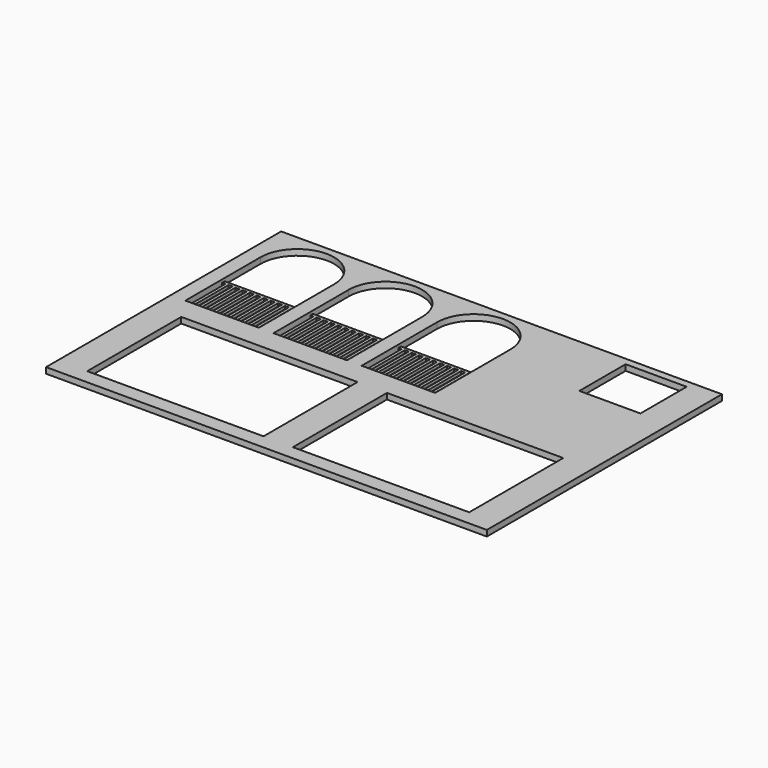
from build123d import *

# Parameters (mm, degrees)
F1_DEPTH = 1
F0_W     = 150
F0_H     = 100
F0_W_2   = 60
F0_H_2   = 40
F0_W_3   = 20.773581
F0_H_3   = 19.665093
F2_DEPTH = 2


with BuildPart() as f1:
    # F0 (on Top) → F1 (new body)
    with BuildSketch(Plane.XY):
        Polygon((-30.650433, 3), (-30.650433, 18.662618), (-29.301084, 18.662618), (-29.301084, 3), (-28.250433, 3), (-28.250433, 18.662618), (-26.901084, 18.662618), (-26.901084, 3), (-25.850433, 3), (-25.850433, 18.662618), (-24.501084, 18.662618), (-24.501084, 3), (-23.450433, 3), (-23.450433, 18.662618), (-22.101084, 18.662618), (-22.101084, 3), (-21.050433, 3), (-21.050433, 18.662618), (-19.701084, 18.662618), (-19.701084, 3), (-18.650433, 3), (-18.650433, 18.662618), (-17.301084, 18.662618), (-17.301084, 3), (-16.250433, 3), (-16.250433, 18.662618), (-15, 18.662618), (-15, 19.713273), (-40, 19.713273), (-40, 18.662618), (-38.901084, 18.662618), (-38.901084, 3), (-37.850433, 3), (-37.850433, 18.662618), (-36.501084, 18.662618), (-36.501084, 3), (-35.450433, 3), (-35.450433, 18.662618), (-34.101084, 18.662618), (-34.101084, 3), (-33.050433, 3), (-33.050433, 18.662618), (-31.701084, 18.662618), (-31.701084, 3), align=None)
        Polygon((-0.650433, 3), (-0.650433, 18.662618), (0.698916, 18.662618), (0.698916, 3), (1.749567, 3), (1.749567, 18.662618), (3.098916, 18.662618), (3.098916, 3), (4.149567, 3), (4.149567, 18.662618), (5.498916, 18.662618), (5.498916, 3), (6.549567, 3), (6.549567, 18.662618), (7.898916, 18.662618), (7.898916, 3), (8.949567, 3), (8.949567, 18.662618), (10.298916, 18.662618), (10.298916, 3), (11.349567, 3), (11.349567, 18.662618), (12.698916, 18.662618), (12.698916, 3), (13.749567, 3), (13.749567, 18.662618), (15, 18.662618), (15, 19.713273), (-10, 19.713273), (-10, 18.662618), (-8.901084, 18.662618), (-8.901084, 3), (-7.850433, 3), (-7.850433, 18.662618), (-6.501084, 18.662618), (-6.501084, 3), (-5.450433, 3), (-5.450433, 18.662618), (-4.101084, 18.662618), (-4.101084, 3), (-3.050433, 3), (-3.050433, 18.662618), (-1.701084, 18.662618), (-1.701084, 3), align=None)
        Polygon((-45, 18.662618), (-45, 19.713273), (-70, 19.713273), (-70, 18.662618), (-68.901084, 18.662618), (-68.901084, 3), (-67.850433, 3), (-67.850433, 18.662618), (-66.501084, 18.662618), (-66.501084, 3), (-65.450433, 3), (-65.450433, 18.662618), (-64.101084, 18.662618), (-64.101084, 3), (-63.050433, 3), (-63.050433, 18.662618), (-61.701084, 18.662618), (-61.701084, 3), (-60.650433, 3), (-60.650433, 18.662618), (-59.301084, 18.662618), (-59.301084, 3), (-58.250433, 3), (-58.250433, 18.662618), (-56.901084, 18.662618), (-56.901084, 3), (-55.850433, 3), (-55.850433, 18.662618), (-54.501084, 18.662618), (-54.501084, 3), (-53.450433, 3), (-53.450433, 18.662618), (-52.101084, 18.662618), (-52.101084, 3), (-51.050433, 3), (-51.050433, 18.662618), (-49.701084, 18.662618), (-49.701084, 3), (-48.650433, 3), (-48.650433, 18.662618), (-47.301084, 18.662618), (-47.301084, 3), (-46.250433, 3), (-46.250433, 18.662618), align=None)
    extrude(amount=F1_DEPTH)


with BuildPart() as f2:
    # F0 (on Top) → F2 (new body)
    with BuildSketch(Plane.XY):
        Rectangle(F0_W, F0_H)
        with Locations((-35, -25)):
            Rectangle(F0_W_2, F0_H_2, mode=Mode.SUBTRACT)
        with Locations((35, -25)):
            Rectangle(F0_W_2, F0_H_2, mode=Mode.SUBTRACT)
        with BuildLine():
            ThreePointArc((-70, 35), (-57.5, 47.5), (-45, 35))
            Line((-45, 35), (-45, 19.713273))
            Line((-45, 19.713273), (-45, 18.662618))
            Line((-45, 18.662618), (-45, 3))
            Line((-45, 3), (-46.250433, 3))
            Line((-46.250433, 3), (-47.301084, 3))
            Line((-47.301084, 3), (-48.650433, 3))
            Line((-48.650433, 3), (-49.701084, 3))
            Line((-49.701084, 3), (-51.050433, 3))
            Line((-51.050433, 3), (-52.101084, 3))
            Line((-52.101084, 3), (-53.450433, 3))
            Line((-53.450433, 3), (-54.501084, 3))
            Line((-54.501084, 3), (-55.850433, 3))
            Line((-55.850433, 3), (-56.901084, 3))
            Line((-56.901084, 3), (-58.250433, 3))
            Line((-58.250433, 3), (-59.301084, 3))
            Line((-59.301084, 3), (-60.650433, 3))
            Line((-60.650433, 3), (-61.701084, 3))
            Line((-61.701084, 3), (-63.050433, 3))
            Line((-63.050433, 3), (-64.101084, 3))
            Line((-64.101084, 3), (-65.450433, 3))
            Line((-65.450433, 3), (-66.501084, 3))
            Line((-66.501084, 3), (-67.850433, 3))
            Line((-67.850433, 3), (-68.901084, 3))
            Line((-68.901084, 3), (-70, 3))
            Line((-70, 3), (-70, 18.662618))
            Line((-70, 18.662618), (-70, 19.713273))
            Line((-70, 19.713273), (-70, 35))
        make_face(mode=Mode.SUBTRACT)
        with BuildLine():
            Line((-29.301084, 3), (-30.650433, 3))
            Line((-30.650433, 3), (-31.701084, 3))
            Line((-31.701084, 3), (-33.050433, 3))
            Line((-33.050433, 3), (-34.101084, 3))
            Line((-34.101084, 3), (-35.450433, 3))
            Line((-35.450433, 3), (-36.501084, 3))
            Line((-36.501084, 3), (-37.850433, 3))
            Line((-37.850433, 3), (-38.901084, 3))
            Line((-38.901084, 3), (-40, 3))
            Line((-40, 3), (-40, 18.662618))
            Line((-40, 18.662618), (-40, 19.713273))
            Line((-40, 19.713273), (-40, 35))
            ThreePointArc((-40, 35), (-27.5, 47.5), (-15, 35))
            Line((-15, 35), (-15, 19.713273))
            Line((-15, 19.713273), (-15, 18.662618))
            Line((-15, 18.662618), (-15, 3))
            Line((-15, 3), (-16.250433, 3))
            Line((-16.250433, 3), (-17.301084, 3))
            Line((-17.301084, 3), (-18.650433, 3))
            Line((-18.650433, 3), (-19.701084, 3))
            Line((-19.701084, 3), (-21.050433, 3))
            Line((-21.050433, 3), (-22.101084, 3))
            Line((-22.101084, 3), (-23.450433, 3))
            Line((-23.450433, 3), (-24.501084, 3))
            Line((-24.501084, 3), (-25.850433, 3))
            Line((-25.850433, 3), (-26.901084, 3))
            Line((-26.901084, 3), (-28.250433, 3))
            Line((-28.250433, 3), (-29.301084, 3))
        make_face(mode=Mode.SUBTRACT)
        with BuildLine():
            Line((0.698916, 3), (-0.650433, 3))
            Line((-0.650433, 3), (-1.701084, 3))
            Line((-1.701084, 3), (-3.050433, 3))
            Line((-3.050433, 3), (-4.101084, 3))
            Line((-4.101084, 3), (-5.450433, 3))
            Line((-5.450433, 3), (-6.501084, 3))
            Line((-6.501084, 3), (-7.850433, 3))
            Line((-7.850433, 3), (-8.901084, 3))
            Line((-8.901084, 3), (-10, 3))
            Line((-10, 3), (-10, 18.662618))
            Line((-10, 18.662618), (-10, 19.713273))
            Line((-10, 19.713273), (-10, 35))
            ThreePointArc((-10, 35), (2.5, 47.5), (15, 35))
            Line((15, 35), (15, 19.713273))
            Line((15, 19.713273), (15, 18.662618))
            Line((15, 18.662618), (15, 3))
            Line((15, 3), (13.749567, 3))
            Line((13.749567, 3), (12.698916, 3))
            Line((12.698916, 3), (11.349567, 3))
            Line((11.349567, 3), (10.298916, 3))
            Line((10.298916, 3), (8.949567, 3))
            Line((8.949567, 3), (7.898916, 3))
            Line((7.898916, 3), (6.549567, 3))
            Line((6.549567, 3), (5.498916, 3))
            Line((5.498916, 3), (4.149567, 3))
            Line((4.149567, 3), (3.098916, 3))
            Line((3.098916, 3), (1.749567, 3))
            Line((1.749567, 3), (0.698916, 3))
        make_face(mode=Mode.SUBTRACT)
        with Locations((54.613209, 37.667454)):
            Rectangle(F0_W_3, F0_H_3, mode=Mode.SUBTRACT)
    extrude(amount=F2_DEPTH)


solid = Compound([f1.part, f2.part])
